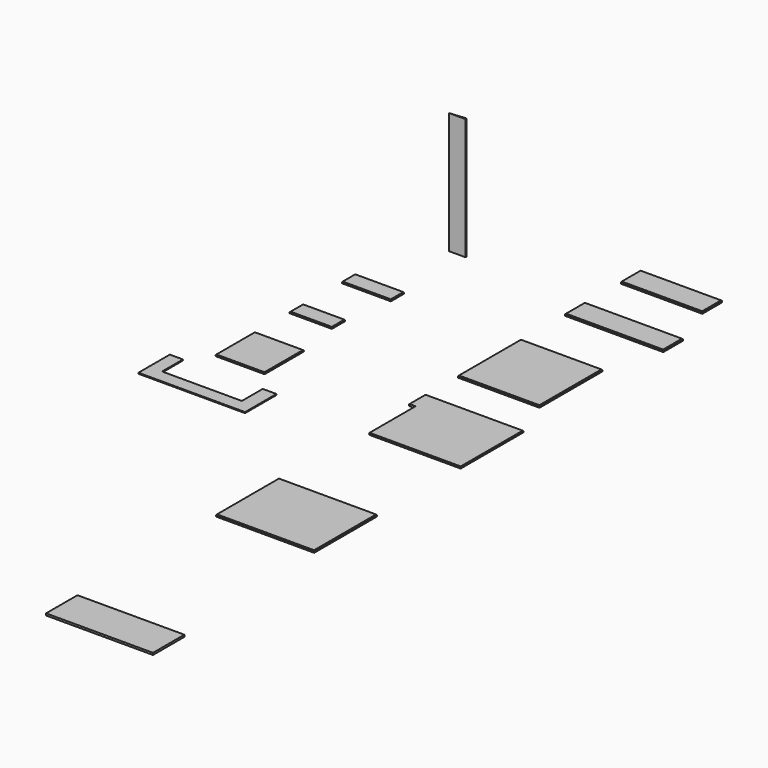
from build123d import *

# Parameters (mm, degrees)
F1_DEPTH  = 20
F2_SIZE   = 5
F3_SIZE   = 5
F4_W      = 830
F4_H      = 800
F5_DEPTH  = 20
F6_W      = 1000
F6_H      = 250
F7_DEPTH  = 20
F8_SIZE   = 5
F9_SIZE   = 5
F10_W     = 830
F10_H     = 250
F11_DEPTH = 20
F12_SIZE  = 5
F13_W     = 1000
F13_H     = 800
F14_DEPTH = 20
F15_SIZE  = 5
F16_W     = 500
F16_H     = 500
F16_W_2   = 430
F16_H_2   = 170
F17_DEPTH = 15
F18_SIZE  = 5
F19_SIZE  = 5
F20_SIZE  = 5
F22_DEPTH = 1240
F23_SIZE  = 5
F25_DEPTH = 10
F26_W     = 1090
F26_H     = 400
F27_DEPTH = 20


with BuildPart() as f1:
    # F0 (on Top) → F1 (new body)
    with BuildSketch(Plane.XY):
        Polygon((1000, 0), (0, 0), (0, -210), (66.591531, -210), (66.591531, -800), (1000, -800), align=None)
    extrude(amount=F1_DEPTH)

    # F2
    f2_edges = [f1.edges().sort_by_distance(p)[0] for p in [
        (0, -105, 20),
        (500, 0, 20),
        (533.295766, -800, 20),
        (1000, -400, 20),
    ]]
    chamfer(f2_edges, length=F2_SIZE)

    # F3
    f3_edges = [f1.edges().sort_by_distance(p)[0] for p in [
        (1000, -400, 0),
        (533.295766, -800, 0),
        (0, -105, 0),
        (500, 0, 0),
    ]]
    chamfer(f3_edges, length=F3_SIZE)


with BuildPart() as f5:
    # F4 (on Top) → F5 (new body)
    with BuildSketch(Plane.XY):
        with Locations((415, 815.819019)):
            Rectangle(F4_W, F4_H)
    extrude(amount=F5_DEPTH)

    # F8
    f8_edges = [f5.edges().sort_by_distance(p)[0] for p in [
        (415, 1215.819019, 20),
        (0, 815.819019, 20),
        (415, 415.819019, 20),
        (830, 815.819019, 20),
    ]]
    chamfer(f8_edges, length=F8_SIZE)


with BuildPart() as f7:
    # F6 (on Top) → F7 (new body)
    with BuildSketch(Plane.XY):
        with Locations((500, 1905.604243)):
            Rectangle(F6_W, F6_H)
    extrude(amount=F7_DEPTH)

    # F9
    f9_edges = [f7.edges().sort_by_distance(p)[0] for p in [
        (1000, 1905.604243, 20),
        (500, 2030.604243, 20),
        (0, 1905.604243, 20),
        (500, 1780.604243, 20),
    ]]
    chamfer(f9_edges, length=F9_SIZE)


with BuildPart() as f11:
    # F10 (on Top) → F11 (new body)
    with BuildSketch(Plane.XY):
        with Locations((415, 2615.703106)):
            Rectangle(F10_W, F10_H)
    extrude(amount=F11_DEPTH)

    # F12
    f12_edges = [f11.edges().sort_by_distance(p)[0] for p in [
        (415, 2740.703106, 20),
        (0, 2615.703106, 20),
        (415, 2490.703106, 20),
        (830, 2615.703106, 20),
    ]]
    chamfer(f12_edges, length=F12_SIZE)


with BuildPart() as f14:
    # F13 (on Top) → F14 (new body)
    with BuildSketch(Plane.XY):
        with Locations((491.210267, -2257.426834)):
            Rectangle(F13_W, F13_H)
    extrude(amount=F14_DEPTH)

    # F15
    f15_edges = [f14.edges().sort_by_distance(p)[0] for p in [
        (491.210267, -1857.426834, 20),
        (-8.789733, -2257.426834, 20),
        (491.210267, -2657.426834, 20),
        (991.210267, -2257.426834, 20),
    ]]
    chamfer(f15_edges, length=F15_SIZE)


with BuildPart() as f17:
    # F16 (on Top) → F17 (new body)
    with BuildSketch(Plane.XY):
        with Locations((-1490.257263, -250)):
            Rectangle(F16_W, F16_H)
        with Locations((-1525.257263, 530.247024)):
            Rectangle(F16_W_2, F16_H_2)
        with Locations((-1490.257263, 1194.684825)):
            Rectangle(F16_W, F16_H_2)
    extrude(amount=F17_DEPTH)

    # F18
    f18_edges = [f17.edges().sort_by_distance(p)[0] for p in [
        (-1490.257263, 0, 15),
        (-1740.257263, -250, 15),
        (-1490.257263, -500, 15),
        (-1240.257263, -250, 15),
    ]]
    chamfer(f18_edges, length=F18_SIZE)

    # F19
    f19_edges = [f17.edges().sort_by_distance(p)[0] for p in [
        (-1490.257263, 1109.684825, 15),
        (-1740.257263, 1194.684825, 15),
        (-1490.257263, 1279.684825, 15),
        (-1240.257263, 1194.684825, 15),
    ]]
    chamfer(f19_edges, length=F19_SIZE)

    # F20
    f20_edges = [f17.edges().sort_by_distance(p)[0] for p in [
        (-1740.257263, 530.247024, 15),
        (-1525.257263, 615.247024, 15),
        (-1310.257263, 530.247024, 15),
        (-1525.257263, 445.247024, 15),
    ]]
    chamfer(f20_edges, length=F20_SIZE)


with BuildPart() as f22:
    # F21 (on face) → F22 (new body)
    with BuildSketch(Plane.XY.offset(15)):
        Polygon((-1233.267372, 2066.762457), (-1403.267372, 2051.762457), (-1233.267372, 2051.762457), align=None)
    extrude(amount=F22_DEPTH)

    # F23
    f23_edges = [f22.edges().sort_by_distance(p)[0] for p in [
        (-1233.267372, 2066.762457, 635),
    ]]
    chamfer(f23_edges, length=F23_SIZE)


with BuildPart() as f25:
    # F24 (on Top) → F25 (new body)
    with BuildSketch(Plane.XY):
        Polygon((-1895.427499, -721.002913), (-2029.427499, -721.002913), (-2029.427499, -1121.002913), (-942.427499, -1121.002913), (-942.427499, -721.002913), (-1082.427499, -721.002913), (-1082.427499, -987.002913), (-1895.427499, -987.002913), align=None)
    extrude(amount=F25_DEPTH)


with BuildPart() as f27:
    # F26 (on Top) → F27 (new body)
    with BuildSketch(Plane.XY):
        with Locations((545, -4634.860325)):
            Rectangle(F26_W, F26_H)
    extrude(amount=F27_DEPTH)


solid = Compound([f1.part, f5.part, f7.part, f11.part, f14.part, f17.part, f22.part, f25.part, f27.part])
